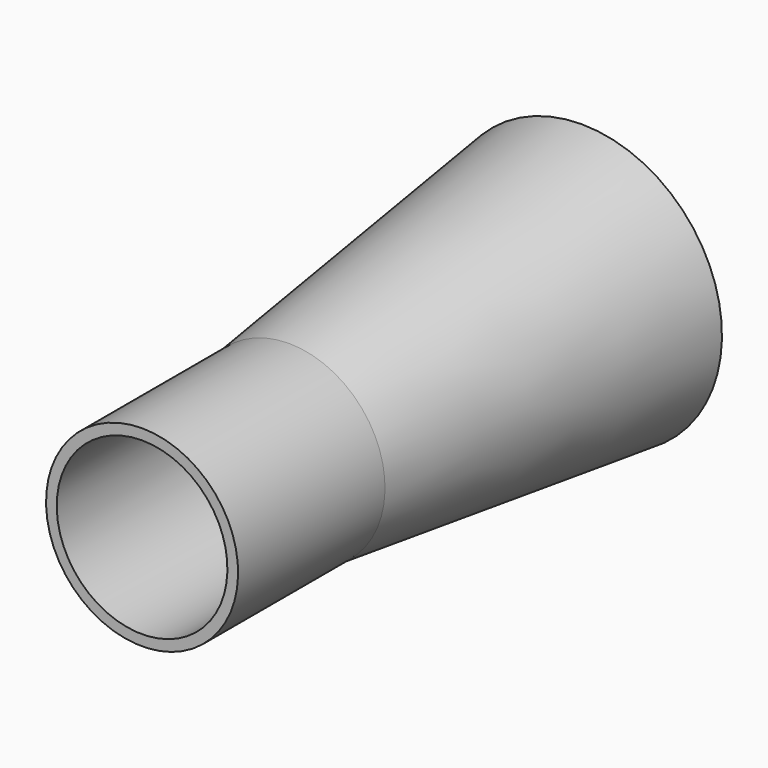
from build123d import *

# Parameters (mm, degrees)
F2_W = 707
F2_H = 668.5


with BuildPart() as f3:
    # F0 (on Right) → F3 (revolve)
    with BuildSketch(Plane.YZ):
        Polygon((-3048, 0), (0, 0), (0, 1168.5), (-3048, 800), (-4578, 800), (-4578, 0), align=None)
    revolve(axis=Axis((0, -1524, 0), (0, -1, 0)))

    # F1 (on face) → F4 (revolve, cut)
    with BuildSketch(Plane.YZ):
        Polygon((-4810.84156, 0), (-3048, 0), (-1524, 0), (-1524, 711), (-3048, 711), (-4816.081524, 711), align=None)
    revolve(axis=Axis((0, -2286, 0), (0, 1, 0)), mode=Mode.SUBTRACT)

    # F2 (on Right) → F5 (revolve, cut)
    with BuildSketch(Plane.YZ):
        with Locations((-353.5, 334.25)):
            Rectangle(F2_W, F2_H)
    revolve(axis=Axis((0, -353.5, 0), (0, -1, 0)), mode=Mode.SUBTRACT)


solid = f3.part
